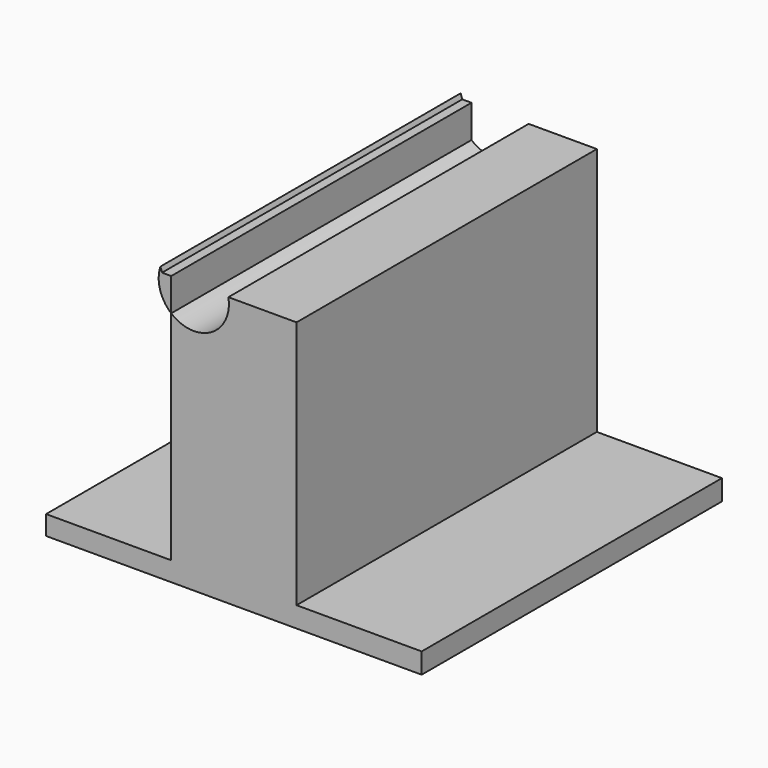
from build123d import *

# Parameters (mm, degrees)
F1_DEPTH = 114.3


with BuildPart() as f1:
    # F0 (on Front) → F1 (new body)
    with BuildSketch(Plane.XZ):
        with BuildLine():
            ThreePointArc((34.802985, 83.55242), (34.704284, 77.31763), (38.1, 72.087768))
            Line((38.1, 72.087768), (38.1, 82.084319))
            Line((38.1, 82.084319), (35.305936, 82.084319))
            ThreePointArc((35.305936, 82.084319), (35.065358, 82.822103), (34.802985, 83.55242))
        make_face()
        with BuildLine():
            Line((0, 5.884319), (0, 0))
            Line((0, 0), (114.377856, 0))
            Line((114.377856, 0), (114.377856, 6.252089))
            Line((114.377856, 6.252089), (76.277856, 6.252089))
            Line((76.277856, 6.252089), (76.277856, 49.352775))
            Line((76.277856, 49.352775), (76.277856, 64.017227))
            Line((76.277856, 64.017227), (76.277856, 82.084319))
            Line((76.277856, 82.084319), (55.520416, 82.084319))
            ThreePointArc((55.520416, 82.084319), (50.303697, 70.99814), (38.1, 72.087768))
            Line((38.1, 72.087768), (38.1, 5.884319))
            Line((38.1, 5.884319), (0, 5.884319))
        make_face()
        with BuildLine():
            Line((0, 5.884319), (0, 0))
            Line((0, 0), (114.377856, 0))
            Line((114.377856, 0), (114.377856, 6.252089))
            Line((114.377856, 6.252089), (76.277856, 6.252089))
            Line((76.277856, 6.252089), (76.277856, 49.352775))
            Line((76.277856, 49.352775), (76.277856, 64.017227))
            Line((76.277856, 64.017227), (76.277856, 82.084319))
            Line((76.277856, 82.084319), (55.520416, 82.084319))
            ThreePointArc((55.520416, 82.084319), (50.303697, 70.99814), (38.1, 72.087768))
            Line((38.1, 72.087768), (38.1, 5.884319))
            Line((38.1, 5.884319), (0, 5.884319))
        make_face()
    extrude(amount=F1_DEPTH)


solid = f1.part
